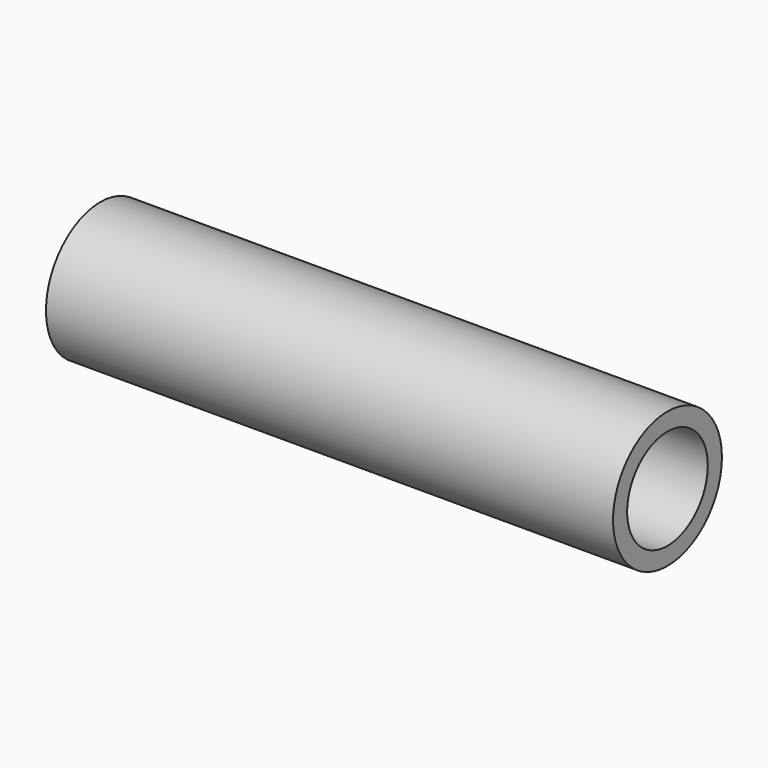
from build123d import *

# Parameters (mm, degrees)
F0_R        = 10.668
F0_R_2      = 7.8994
F1_DEPTH    = 63.5
F1_FACE_R   = 10.668
F1_FACE_R_2 = 7.8994
F2_DEPTH    = 25.4


with BuildPart() as f1:
    # F0 (on Right) → F1 (new body)
    with BuildSketch(Plane.YZ):
        Circle(F0_R)
        Circle(F0_R_2, mode=Mode.SUBTRACT)
    extrude(amount=F1_DEPTH)

    # F1_face (on face) → F2 (join)
    with BuildSketch(Plane(origin=(0, 0, 0), x_dir=(0, 1, 0), z_dir=(-1, 0, 0))):
        Circle(F1_FACE_R)
        Circle(F1_FACE_R_2, mode=Mode.SUBTRACT)
    extrude(amount=F2_DEPTH)


solid = f1.part
